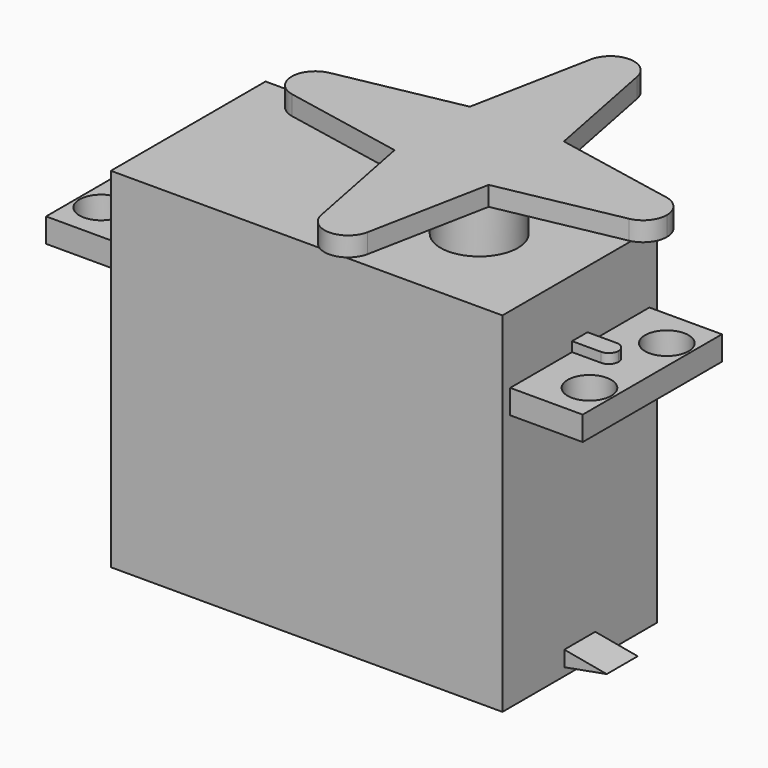
from build123d import *

# Parameters (mm, degrees)
F1_DEPTH  = 10
F0_W      = 7.5
F0_H      = 2.5
F2_DEPTH  = 9
F3_DEPTH  = 2
F5_R      = 4
F6_DEPTH  = 8
F7_DEPTH  = 2
F9_D      = 4.5
F9_DEPTH  = 29.101
F10_DEPTH = 1


with BuildPart() as f1:
    # F0 (on Front) → F1 (new body, symmetric)
    with BuildSketch(Plane.XZ):
        Polygon((0, 26.6), (0, 0), (40.5, 0), (40.5, 0.8176856209), (40.5, 2.4204463698), (40.5, 26.6), (40.5, 29.1), (40.5, 36.1), (0, 36.1), (0, 29.1), align=None)
    extrude(amount=F1_DEPTH, both=True)

    # F0 (on Front) → F2 (join, symmetric)
    with BuildSketch(Plane.XZ):
        with Locations((-3.75, 27.85)):
            Rectangle(F0_W, F0_H)
        with Locations((44.25, 27.85)):
            Rectangle(F0_W, F0_H)
    extrude(amount=F2_DEPTH, both=True)

    # F0 (on Front) → F3 (join, symmetric)
    with BuildSketch(Plane.XZ):
        Polygon((40.5, 2.4204463698), (40.5, 0.8176856209), (44.8900647461, 1.6190659953), align=None)
    extrude(amount=F3_DEPTH, both=True)

    # F5 (on plane+point) → F6 (join, through all)
    with BuildSketch(Plane.XY.offset(44.1)):
        with Locations((30.1, 0)):
            Circle(F5_R)
    extrude(amount=-F6_DEPTH)

    # F5 (on plane+point) → F7 (join)
    with BuildSketch(Plane.XY.offset(44.1)):
        with BuildLine():
            ThreePointArc((32.55, 16.95), (29.8633773569, 14.5114533581), (27.6957063471, 17.4210329401))
            Line((27.6957063471, 17.4210329401), (25.2356786223, 4.8643213777))
            Line((25.2356786223, 4.8643213777), (12.6789670858, 2.404293658))
            ThreePointArc((12.6789670858, 2.404293658), (14.7069954014, 1.8916303338), (15.6, 0))
            ThreePointArc((15.6, 0), (14.7069954014, -1.8916303338), (12.6789670858, -2.404293658))
            Line((12.6789670858, -2.404293658), (25.2356786223, -4.8643213777))
            Line((25.2356786223, -4.8643213777), (27.6957063471, -17.4210329401))
            ThreePointArc((27.6957063471, -17.4210329401), (29.8633773569, -14.5114533581), (32.55, -16.95))
            ThreePointArc((32.55, -16.95), (32.5385466419, -17.1866226431), (32.5042936529, -17.4210329401))
            Line((32.5042936529, -17.4210329401), (34.9643213777, -4.8643213777))
            Line((34.9643213777, -4.8643213777), (47.5210328982, -2.4042936611))
            ThreePointArc((47.5210328982, -2.4042936611), (44.6, 8.2e-09), (47.5210329142, 2.404293658))
            Line((47.5210329142, 2.404293658), (34.9643213777, 4.8643213777))
            Line((34.9643213777, 4.8643213777), (32.5042935187, 17.4210336249))
            ThreePointArc((32.5042935187, 17.4210336249), (32.5385466082, 17.1866229903), (32.55, 16.95))
        make_face()
        with Locations((30.1, 0)):
            Circle(F5_R, mode=Mode.SUBTRACT)
        with BuildLine():
            ThreePointArc((32.5042935187, 17.4210336249), (30.0999996511, 19.4), (27.6957063471, 17.4210329401))
            ThreePointArc((27.6957063471, 17.4210329401), (29.8633773569, 14.5114533581), (32.55, 16.95))
            ThreePointArc((32.55, 16.95), (32.5385466082, 17.1866229903), (32.5042935187, 17.4210336249))
        make_face()
        with BuildLine():
            ThreePointArc((49.5, 0), (48.9416303338, 1.5569954014), (47.5210329142, 2.404293658))
            ThreePointArc((47.5210329142, 2.404293658), (44.6, 8.2e-09), (47.5210328982, -2.4042936611))
            ThreePointArc((47.5210328982, -2.4042936611), (48.9416303286, -1.5569954077), (49.5, 0))
        make_face()
        with BuildLine():
            ThreePointArc((32.55, -16.95), (29.8633773569, -14.5114533581), (27.6957063471, -17.4210329401))
            ThreePointArc((27.6957063471, -17.4210329401), (30.1, -19.4), (32.5042936529, -17.4210329401))
            ThreePointArc((32.5042936529, -17.4210329401), (32.5385466419, -17.1866226431), (32.55, -16.95))
        make_face()
        with BuildLine():
            ThreePointArc((15.6, 0), (14.7069954014, 1.8916303338), (12.6789670858, 2.404293658))
            ThreePointArc((12.6789670858, 2.404293658), (10.7, 0), (12.6789670858, -2.404293658))
            ThreePointArc((12.6789670858, -2.404293658), (14.7069954014, -1.8916303338), (15.6, 0))
        make_face()
        with Locations((30.1, 0)):
            Circle(F5_R)
    extrude(amount=-F7_DEPTH)

    # F9 (through all, one way)
    with BuildSketch(Plane.XY.offset(29.1)):
        with Locations((-5, 5), (-5, -5), (45.5, 5), (45.5, -5)):
            Circle(F9_D / 2)
    extrude(amount=-F9_DEPTH, mode=Mode.SUBTRACT)

    # F8 (on face) → F10 (join)
    with BuildSketch(Plane.XY.offset(29.1)):
        with BuildLine():
            Line((0, -1), (0, 1))
            Line((0, 1), (-3, 1))
            ThreePointArc((-3, 1), (-3.7071067812, 0.7071067812), (-4, 0))
            ThreePointArc((-4, 0), (-3.7071067812, -0.7071067812), (-3, -1))
            Line((-3, -1), (0, -1))
        make_face()
        with BuildLine():
            Line((43.5, 1), (40.5, 1))
            Line((40.5, 1), (40.5, -1))
            Line((40.5, -1), (43.5, -1))
            ThreePointArc((43.5, -1), (44.2071067812, -0.7071067812), (44.5, 0))
            ThreePointArc((44.5, 0), (44.2071067812, 0.7071067812), (43.5, 1))
        make_face()
    extrude(amount=F10_DEPTH)


solid = f1.part
